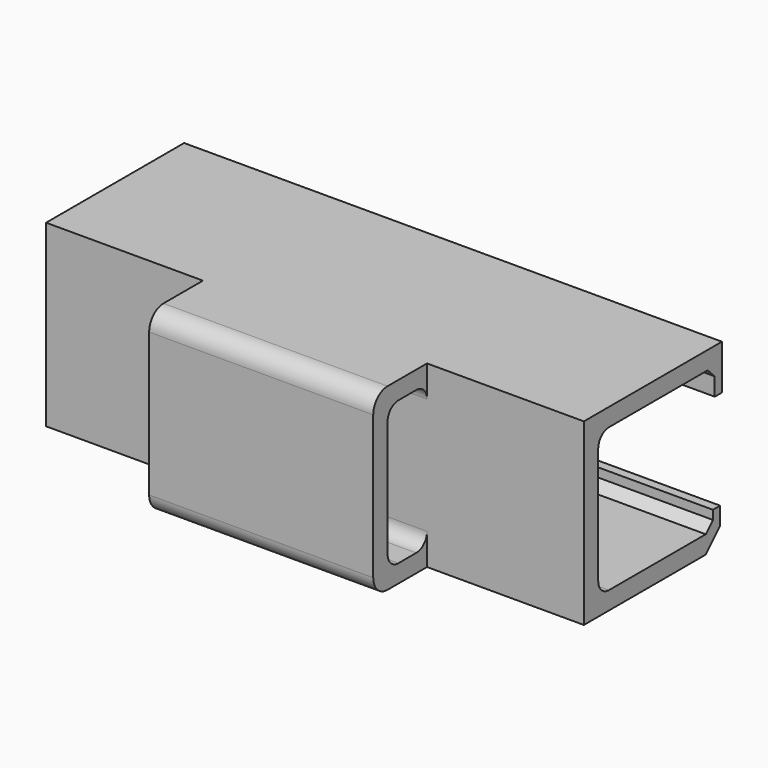
from build123d import *

# Parameters (mm, degrees)
PAD011_DEPTH    = 6
SKETCH019_W     = 4
SKETCH019_H     = 4
POCKET002_DEPTH = 3.451
PAD012_DEPTH    = 2.5
FILLET004_R     = 0.3


with BuildPart() as part:
    # Sketch018 → Pad011 (new body, symmetric)
    with BuildSketch(Plane.YZ):
        with BuildLine():
            Line((13.1, -7.9), (13.1, -3.9))
            Line((13.1, -3.9), (16.95, -3.9))
            Line((16.95, -3.9), (16.95, -4.9))
            Line((16.95, -4.9), (16.75, -4.9))
            Line((16.75, -4.9), (16.75, -4.5))
            Line((16.75, -4.5), (16.55, -4.3))
            Line((16.55, -4.3), (13.8, -4.3))
            ThreePointArc((13.8, -4.3), (13.587868, -4.387868), (13.5, -4.6))
            Line((13.5, -4.6), (13.5, -7.2))
            ThreePointArc((13.5, -7.2), (13.587868, -7.412132), (13.8, -7.5))
            Line((13.8, -7.5), (16.5, -7.5))
            Line((16.5, -7.5), (16.7, -7.3))
            Line((16.7, -7.3), (16.7, -7.1))
            Line((16.7, -7.1), (16.9, -7.1))
            Line((16.9, -7.1), (16.9, -7.5))
            Line((16.5, -7.9), (16.9, -7.5))
            Line((16.5, -7.9), (13.1, -7.9))
        make_face()
    extrude(amount=PAD011_DEPTH, both=True)

    # Sketch019 (on Face10 of Pad011) → Pocket002 (cut, through all)
    with BuildSketch(Plane.ZX.offset(13.5)):
        with Locations((-7.9, 0)):
            Rectangle(SKETCH019_W, SKETCH019_H)
    extrude(amount=POCKET002_DEPTH, mode=Mode.SUBTRACT)

    # Sketch020 → Pad012 (join, symmetric)
    with BuildSketch(Plane.YZ):
        with BuildLine():
            Line((13.1, -3.9), (12, -3.9))
            ThreePointArc((12, -3.9), (11.717157, -4.017157), (11.6, -4.3))
            Line((11.6, -4.3), (11.6, -7.5))
            ThreePointArc((11.6, -7.5), (11.717157, -7.782843), (12, -7.9))
            Line((12, -7.9), (13.1, -7.9))
            Line((13.1, -7.9), (13.1, -7.5))
            Line((12, -7.5), (13.1, -7.5))
            Line((12, -4.3), (12, -7.5))
            Line((13.1, -4.3), (12, -4.3))
            Line((13.1, -4.3), (13.1, -3.9))
        make_face()
    extrude(amount=PAD012_DEPTH, both=True)

    # Fillet004
    fillet004_edges = [part.edges().sort_by_distance(p)[0] for p in [
        (0, 12, -4.3),
        (0, 12, -7.5),
        (0, 13.1, -7.5),
        (0, 13.1, -4.3),
    ]]
    fillet(fillet004_edges, radius=FILLET004_R)


solid = part.part
